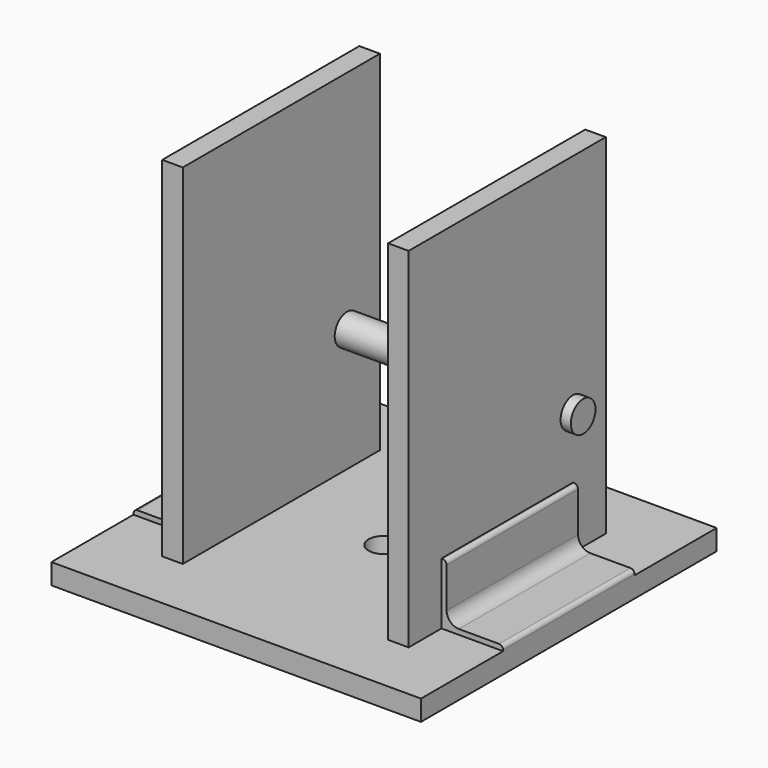
from build123d import *

# Parameters (mm, degrees)
F0_W      = 228.6
F0_H      = 228.6
F1_DEPTH  = 12.7
F2_W      = 152.4
F2_H      = 215.9
F3_DEPTH  = 76.2
F4_DEPTH  = 63.5
F5_R      = 9.525
F6_DEPTH  = 12.7
F7_R      = 9.525
F8_DEPTH  = 82.55
F9_W      = 38.1
F9_H      = 101.6
F10_DEPTH = 15.875
F11_W     = 3.175
F11_H     = 101.6
F12_DEPTH = 50.8
F13_R     = 2.54
F14_R     = 7.62


with BuildPart() as f1:
    # F0 (on Top) → F1 (new body)
    with BuildSketch(Plane.XY):
        Rectangle(F0_W, F0_H)
    extrude(amount=F1_DEPTH)

    # F2 (on Right) → F3 (join, symmetric)
    with BuildSketch(Plane.YZ):
        with Locations((0, 120.65)):
            Rectangle(F2_W, F2_H)
    extrude(amount=F3_DEPTH, both=True)

    # F2 (on Right) → F4 (cut, symmetric)
    with BuildSketch(Plane.YZ):
        with Locations((0, 120.65)):
            Rectangle(F2_W, F2_H)
    extrude(amount=F4_DEPTH, both=True, mode=Mode.SUBTRACT)

    # F5 (on Top) → F6 (cut, symmetric)
    with BuildSketch(Plane.XY):
        Circle(F5_R)
    extrude(amount=F6_DEPTH, both=True, mode=Mode.SUBTRACT)

    # F7 (on Right) → F8 (join, symmetric)
    with BuildSketch(Plane.YZ):
        with Locations((50.8, 88.9)):
            Circle(F7_R)
    extrude(amount=F8_DEPTH, both=True)

    # F9 (on Top) → F10 (join)
    with BuildSketch(Plane.XY):
        with Locations((-95.25, 0)):
            Rectangle(F9_W, F9_H)
        with Locations((95.25, 0)):
            Rectangle(F9_W, F9_H)
    extrude(amount=F10_DEPTH)

    # F11 (on Top) → F12 (join)
    with BuildSketch(Plane.XY):
        with Locations((-77.7875, 0)):
            Rectangle(F11_W, F11_H)
        with Locations((77.7875, 0)):
            Rectangle(F11_W, F11_H)
    extrude(amount=F12_DEPTH)

    # F13
    f13_edges = [f1.edges().sort_by_distance(p)[0] for p in [
        (-114.3, 0, 15.875),
        (-79.375, 0, 50.8),
        (79.375, 0, 50.8),
        (114.3, 0, 15.875),
    ]]
    fillet(f13_edges, radius=F13_R)

    # F14
    f14_edges = [f1.edges().sort_by_distance(p)[0] for p in [
        (-79.375, 0, 15.875),
        (79.375, 0, 15.875),
    ]]
    fillet(f14_edges, radius=F14_R)


solid = f1.part
